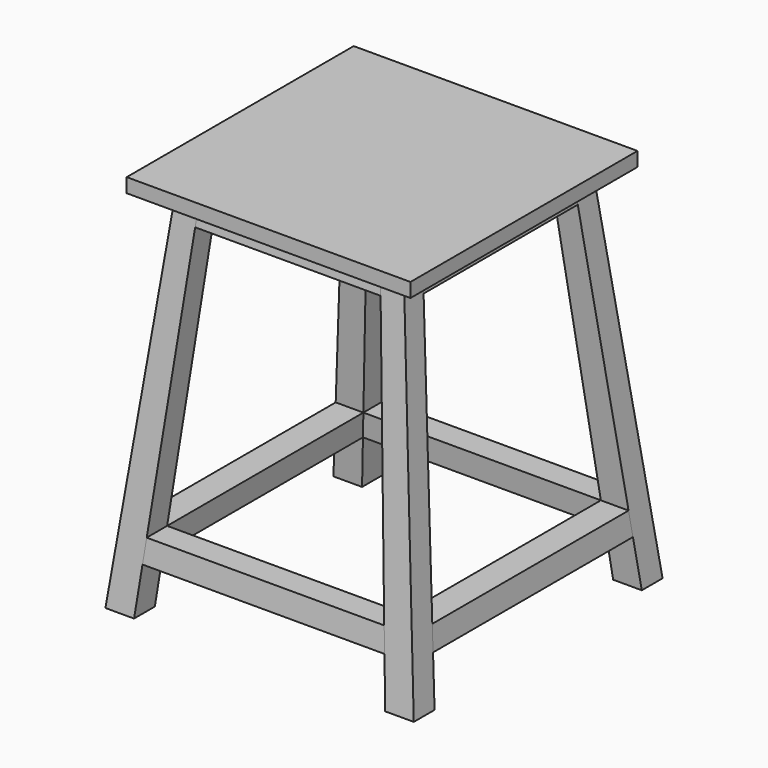
from build123d import *

# Parameters (mm, degrees)
F0_W     = 600
F0_H     = 600
F1_DEPTH = 30
F2_W     = 50
F2_H     = 50
F4_W     = 60.5461252972
F4_H     = 54.9688454909


with BuildPart() as f1:
    # F0 (on Top) → F1 (new body)
    with BuildSketch(Plane.XY):
        with Locations((-0.9914571419, -3.804606373)):
            Rectangle(F0_W, F0_H)
    extrude(amount=F1_DEPTH)

    # F7: F6_1, F5 across plane


with BuildPart() as f5:
    # F2 (on Top) → F5 section 0
    with BuildSketch(Plane.XY):
        with Locations((-216.2354439497, -223.8953137973)):
            Rectangle(F2_W, F2_H)
    # F4 (on offset) → F5 section 1
    with BuildSketch(Plane.XY.offset(-770)):
        with Locations((-295.7183944933, -301.3201836275)):
            Rectangle(F4_W, F4_H)
    loft()


with BuildPart() as f6_1:
    # F6: instance of F5
    add(f5.part.mirror(Plane.YZ))


with BuildPart() as f1_1:
    add(f1.part)
    add(f6_1.part.mirror(Plane.XZ))
    add(f5.part.mirror(Plane.XZ))


    add(f5.part)  # F19 merges F5

    add(f6_1.part)  # F19 merges F6_1
    # F19: F18 across plane


with BuildPart() as f10:
    # F9 (on face) → F10 section 0
    with BuildSketch(Plane(origin=(-189.4755147525, 0, 18.2609827385), x_dir=(0, 1, 0), z_dir=(0.9953878919, 0, -0.0959319791))):
        Polygon((259.3299424331, -642.1780271339), (264.1481227465, -691.9133727984), (318.4746398428, -691.9133727984), (313.336995282, -642.1780271339), align=None)
    # F8 (on face) → F10 section 1
    with BuildSketch(Plane(origin=(189.4755147525, 0, 18.2609827385), x_dir=(0, -1, 0), z_dir=(-0.9953878919, 0, -0.0959319791))):
        Polygon((-313.336995282, -642.1780271339), (-318.4746398428, -691.9133727984), (-264.1481227465, -691.9133727984), (-259.3299424331, -642.1780271339), align=None)
    loft()


with BuildPart() as f11_1:
    # F11: instance of F10
    add(f10.part.mirror(Plane.XZ))


with BuildPart() as f14:
    # F13 (on face) → F14 section 0
    with BuildSketch(Plane(origin=(0, 197.0290144931, 19.175899266), x_dir=(1, 0, 0), z_dir=(0, -0.9952972799, -0.0968675625))):
        Polygon((-255.8530072263, -692.904708192), (-251.0853709275, -643.202091898), (-309.5907715802, -643.202091898), (-315.0359468324, -692.904708192), align=None)
    # F12 (on face) → F14 section 1
    with BuildSketch(Plane(origin=(0, -197.0290144931, 19.175899266), x_dir=(-1, 0, 0), z_dir=(0, 0.9952972799, -0.0968675625))):
        Polygon((251.0853709275, -643.202091898), (255.8530072263, -692.904708192), (315.0359468324, -692.904708192), (309.5907715802, -643.202091898), align=None)
    loft()


with BuildPart() as f15_1:
    # F15: instance of F14
    add(f14.part.mirror(Plane.YZ))


with BuildPart() as f18:
    # F17 (on face) → F18 section 0
    with BuildSketch(Plane(origin=(-189.4755147525, 0, 18.2609827385), x_dir=(0, 1, 0), z_dir=(0.9953878919, 0, -0.0959319791))):
        Polygon((254.0329583581, -68.080940268), (248.8953137973, -18.3455946035), (198.8953137973, -18.3455946035), (203.7134941108, -68.080940268), align=None)
    # F16 (on face) → F18 section 1
    with BuildSketch(Plane(origin=(189.4755147525, 0, 18.2609827385), x_dir=(0, -1, 0), z_dir=(-0.9953878919, 0, -0.0959319791))):
        Polygon((-198.8953137973, -18.3455946035), (-248.8953137973, -18.3455946035), (-254.0329583581, -68.080940268), (-204.1813530846, -72.9103833916), align=None)
    loft()


with BuildPart() as f1_2:
    add(f1_1.part)
    add(f18.part.mirror(Plane.XZ))



with BuildPart() as f22:
    # F21 (on face) → F22 section 0
    with BuildSketch(Plane(origin=(0, 197.0290144931, 19.175899266), x_dir=(1, 0, 0), z_dir=(0, -0.9952972799, -0.0968675625))):
        Polygon((-190.9130329513, -19.2665042431), (-241.2354439497, -19.2665042431), (-246.6847009277, -69.0063778227), (-196.0066540883, -69.0063778227), align=None)
    # F20 (on face) → F22 section 1
    with BuildSketch(Plane(origin=(0, -197.0290144931, 19.175899266), x_dir=(-1, 0, 0), z_dir=(0, 0.9952972799, -0.0968675625))):
        Polygon((241.2354439497, -19.2665042431), (190.9130329513, -19.2665042431), (196.0066540883, -69.0063778227), (246.6806192019, -68.9691205372), align=None)
    loft()


with BuildPart() as f1_3:
    add(f1_2.part)

    add(f10.part)  # F23 merges F10

    add(f11_1.part)  # F23 merges F11_1

    add(f14.part)  # F23 merges F14

    add(f15_1.part)  # F23 merges F15_1

    add(f18.part)  # F23 merges F18

    add(f22.part)  # F23 merges F22
    # F23: F22 across plane
    add(f22.part.mirror(Plane.YZ))


solid = f1_3.part
